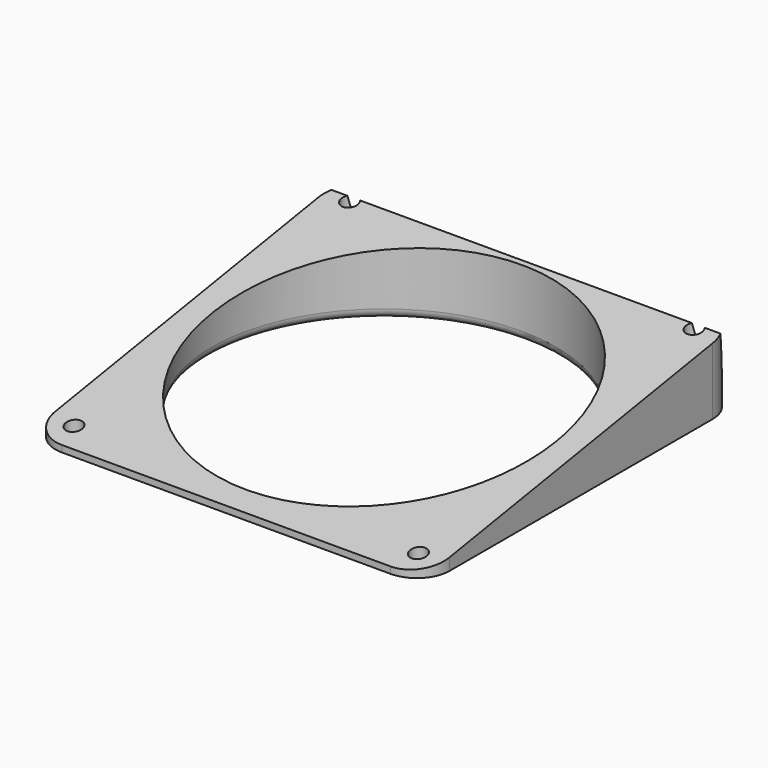
from build123d import *

# Parameters (mm, degrees)
F0_R     = 2.5
F0_R_2   = 52.5
F1_DEPTH = 30
F3_DEPTH = 120.001
F4_R     = 3


with BuildPart() as f1:
    # F0 (on Top) → F1 (new body)
    with BuildSketch(Plane.XY):
        with BuildLine():
            ThreePointArc((0, 10), (2.928932, 2.928932), (10, 0))
            Line((10, 0), (110, 0))
            ThreePointArc((110, 0), (117.071068, 2.928932), (120, 10))
            Line((120, 10), (120, 110))
            ThreePointArc((120, 110), (117.071068, 117.071068), (110, 120))
            Line((110, 120), (10, 120))
            ThreePointArc((10, 120), (2.928932, 117.071068), (0, 110))
            Line((0, 110), (0, 10))
        make_face()
        with Locations((7.6, 7.6)):
            Circle(F0_R, mode=Mode.SUBTRACT)
        with Locations((112.4, 7.6)):
            Circle(F0_R, mode=Mode.SUBTRACT)
        with Locations((60, 60)):
            Circle(F0_R_2, mode=Mode.SUBTRACT)
        with Locations((7.6, 112.4)):
            Circle(F0_R, mode=Mode.SUBTRACT)
        with Locations((112.4, 112.4)):
            Circle(F0_R, mode=Mode.SUBTRACT)
    extrude(amount=F1_DEPTH)

    # F2 (on face) → F3 (cut, through all)
    with BuildSketch(Plane.YZ.offset(120)):
        Polygon((0, 45), (0, 2), (114, 21), (117.5, 0), (125, 0), (125, 45), (120, 45), align=None)
    extrude(amount=-F3_DEPTH, mode=Mode.SUBTRACT)

    # F4
    f4_edges = [f1.edges().sort_by_distance(p)[0] for p in [
        (7.5, 60, 0),
    ]]
    fillet(f4_edges, radius=F4_R)


solid = f1.part
